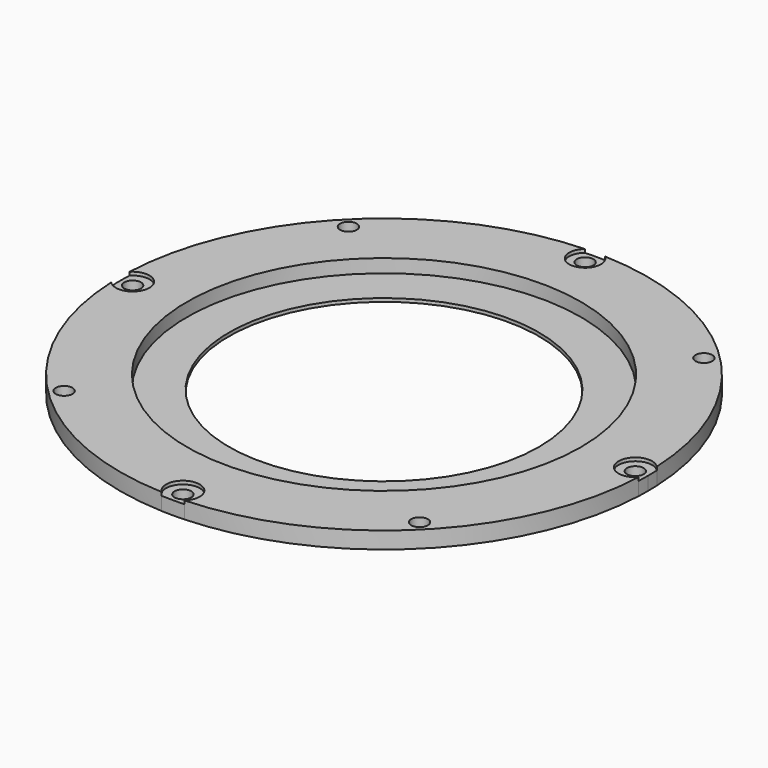
from build123d import *

# Parameters (mm, degrees)
F0_R     = 1.5875
F1_DEPTH = 2.54
F0_R_2   = 37.30625
F0_R_3   = 29.36875
F2_DEPTH = 0.635
F3_DEPTH = 3.175


with BuildPart() as f1:
    # F0 (on Top) → F1 (new body)
    with BuildSketch(Plane.XY):
        with BuildLine():
            ThreePointArc((-1.88189, 49.970827), (0, 44.617607), (1.88189, 49.970827))
            ThreePointArc((1.88189, 49.970827), (0, 50.00625), (-1.88189, 49.970827))
        make_face()
        with Locations((0, 47.625)):
            Circle(F0_R, mode=Mode.SUBTRACT)
        with BuildLine():
            ThreePointArc((-49.959948, -2.151428), (-44.45, 0), (-49.959948, 2.151428))
            ThreePointArc((-49.959948, 2.151428), (-50.00625, 0), (-49.959948, -2.151428))
        make_face()
        with Locations((-47.625, 0)):
            Circle(F0_R, mode=Mode.SUBTRACT)
        with BuildLine():
            ThreePointArc((-2.151428, -49.959948), (0, -50.00625), (2.151428, -49.959948))
            ThreePointArc((2.151428, -49.959948), (0, -44.45), (-2.151428, -49.959948))
        make_face()
        with Locations((0, -47.625)):
            Circle(F0_R, mode=Mode.SUBTRACT)
        with BuildLine():
            ThreePointArc((49.959948, -2.151428), (49.994673, -1.075963), (50.00625, 0))
            ThreePointArc((50.00625, 0), (49.994673, 1.075963), (49.959948, 2.151428))
            ThreePointArc((49.959948, 2.151428), (44.45, 0), (49.959948, -2.151428))
        make_face()
        with Locations((47.625, 0)):
            Circle(F0_R, mode=Mode.SUBTRACT)
    extrude(amount=F1_DEPTH)


with BuildPart() as f2:
    # F0 (on Top) → F2 (new body)
    with BuildSketch(Plane.XY):
        Circle(F0_R_2)
        Circle(F0_R_3, mode=Mode.SUBTRACT)
    extrude(amount=F2_DEPTH)


with BuildPart() as f3:
    # F0 (on Top) → F3 (new body)
    with BuildSketch(Plane.XY):
        with BuildLine():
            ThreePointArc((49.959948, -2.151428), (44.45, 0), (49.959948, 2.151428))
            ThreePointArc((49.959948, 2.151428), (35.264256, 35.455004), (1.88189, 49.970827))
            ThreePointArc((1.88189, 49.970827), (0, 44.617607), (-1.88189, 49.970827))
            ThreePointArc((-1.88189, 49.970827), (-35.264256, 35.455004), (-49.959948, 2.151428))
            ThreePointArc((-49.959948, 2.151428), (-44.45, 0), (-49.959948, -2.151428))
            ThreePointArc((-49.959948, -2.151428), (-35.359758, -35.359758), (-2.151428, -49.959948))
            ThreePointArc((-2.151428, -49.959948), (0, -44.45), (2.151428, -49.959948))
            ThreePointArc((2.151428, -49.959948), (35.359758, -35.359758), (49.959948, -2.151428))
        make_face()
        with Locations((-33.67596, -33.67596)):
            Circle(F0_R, mode=Mode.SUBTRACT)
        Circle(F0_R_2, mode=Mode.SUBTRACT)
        with Locations((33.67596, -33.67596)):
            Circle(F0_R, mode=Mode.SUBTRACT)
        with Locations((-33.67596, 33.67596)):
            Circle(F0_R, mode=Mode.SUBTRACT)
        with Locations((33.67596, 33.67596)):
            Circle(F0_R, mode=Mode.SUBTRACT)
    extrude(amount=F3_DEPTH)


solid = Compound([f1.part, f2.part, f3.part])
